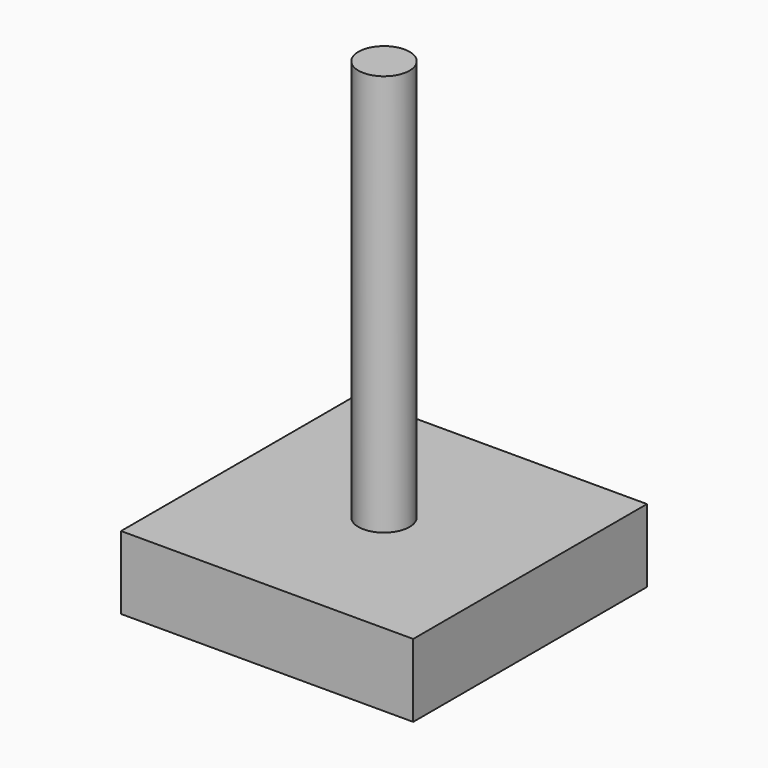
from build123d import *

# Parameters (mm, degrees)
F0_W     = 50.8
F0_H     = 12.7
F1_DEPTH = 25.4
F2_R     = 4.445
F3_DEPTH = 76.2


with BuildPart() as f1:
    # F0 (on Front) → F1 (new body, symmetric)
    with BuildSketch(Plane.XZ):
        Rectangle(F0_W, F0_H)
    extrude(amount=F1_DEPTH, both=True)

    # F2 (on Top) → F3 (join)
    with BuildSketch(Plane.XY):
        Circle(F2_R)
    extrude(amount=F3_DEPTH)


solid = f1.part
